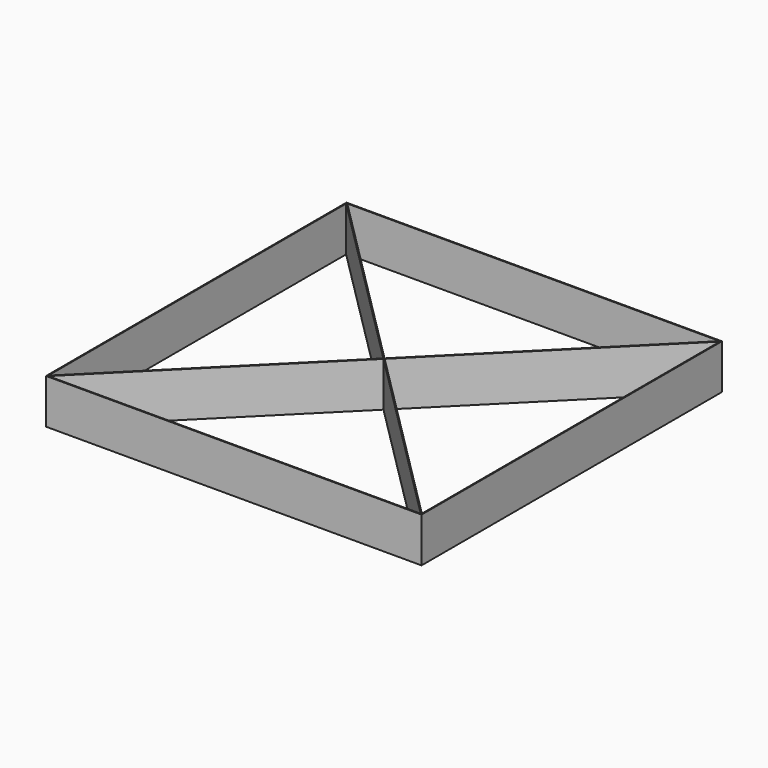
from build123d import *

# Parameters (mm, degrees)
F1_DEPTH = 25


with BuildPart() as f1:
    # F0 (on Top) → F1 (new body)
    with BuildSketch(Plane.XY):
        Polygon((-104.5, 104.1464466094), (-105, 104.6464466094), (-105, -104.6464466094), (-104.5, -104.1464466094), align=None)
        Polygon((-104.1464466094, -104.5), (-104.6464466094, -105), (104.6464466094, -105), (104.1464466094, -104.5), align=None)
        Polygon((-104.5, -104.5), (-105, -105), (-104.6464466094, -105), (-104.1464466094, -104.5), align=None)
        Polygon((-104.5, -104.1464466094), (-105, -104.6464466094), (-105, -105), (-104.5, -104.5), align=None)
        Polygon((-0.1767766953, -0.1767766953), (-104.5, -104.5), (-104.1464466094, -104.5), (0, -0.3535533906), align=None)
        Polygon((-0.3535533906, 0), (-104.5, -104.1464466094), (-104.5, -104.5), (-0.1767766953, -0.1767766953), align=None)
        Polygon((105, -104.6464466094), (105, 104.6464466094), (104.5, 104.1464466094), (104.5, -104.1464466094), align=None)
        Polygon((105, -105), (105, -104.6464466094), (104.5, -104.1464466094), (104.5, -104.5), align=None)
        Polygon((104.1464466094, -104.5), (104.6464466094, -105), (105, -105), (104.5, -104.5), align=None)
        Polygon((104.5, -104.5), (0.1767766953, -0.1767766953), (0, -0.3535533906), (104.1464466094, -104.5), align=None)
        Polygon((0.3535533906, 0), (0.1767766953, -0.1767766953), (104.5, -104.5), (104.5, -104.1464466094), align=None)
        Polygon((0, 0), (-0.1767766953, 0.1767766953), (-0.3535533906, 0), (-0.1767766953, -0.1767766953), align=None)
        Polygon((0.1767766953, -0.1767766953), (0, 0), (-0.1767766953, -0.1767766953), (0, -0.3535533906), align=None)
        Polygon((0.1767766953, 0.1767766953), (0, 0), (0.1767766953, -0.1767766953), (0.3535533906, 0), align=None)
        Polygon((0, 0.3535533906), (-0.1767766953, 0.1767766953), (0, 0), (0.1767766953, 0.1767766953), align=None)
        Polygon((104.5, 104.1464466094), (104.5, 104.5), (0.1767766953, 0.1767766953), (0.3535533906, 0), align=None)
        Polygon((104.5, 104.5), (104.1464466094, 104.5), (0, 0.3535533906), (0.1767766953, 0.1767766953), align=None)
        Polygon((-104.1464466094, 104.5), (-104.5, 104.5), (-0.1767766953, 0.1767766953), (0, 0.3535533906), align=None)
        Polygon((-0.1767766953, 0.1767766953), (-104.5, 104.5), (-104.5, 104.1464466094), (-0.3535533906, 0), align=None)
        Polygon((-104.5, 104.5), (-105, 105), (-105, 104.6464466094), (-104.5, 104.1464466094), align=None)
        Polygon((-104.6464466094, 105), (-105, 105), (-104.5, 104.5), (-104.1464466094, 104.5), align=None)
        Polygon((104.6464466094, 105), (-104.6464466094, 105), (-104.1464466094, 104.5), (104.1464466094, 104.5), align=None)
        Polygon((105, 105), (104.6464466094, 105), (104.1464466094, 104.5), (104.5, 104.5), align=None)
        Polygon((105, 104.6464466094), (105, 105), (104.5, 104.5), (104.5, 104.1464466094), align=None)
    extrude(amount=F1_DEPTH)


solid = f1.part
